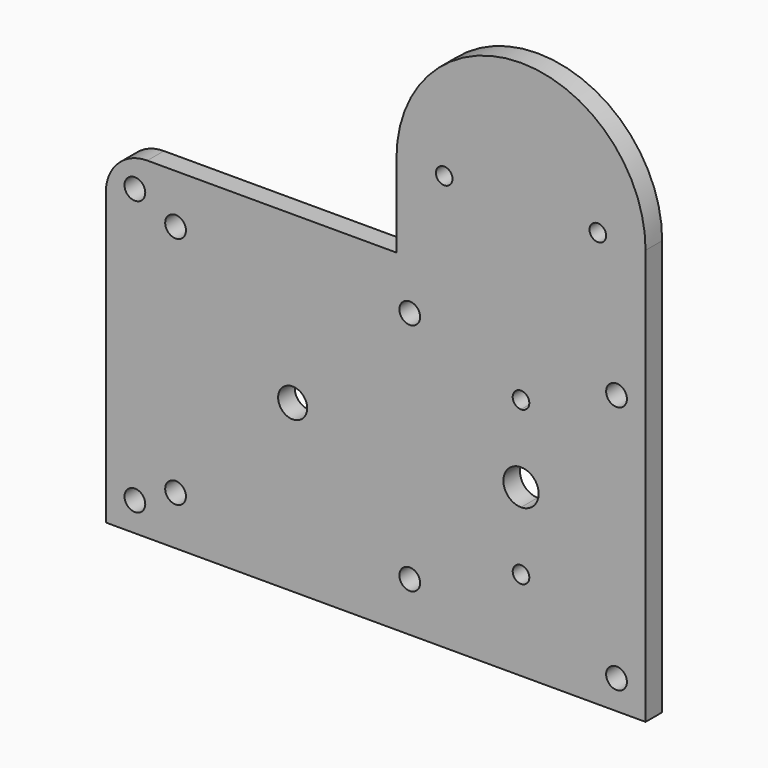
from build123d import *

# Parameters (mm, degrees)
F0_R     = 2.5
F0_R_2   = 3.5
F0_R_3   = 2
F1_DEPTH = 5


with BuildPart() as f1:
    # F0 (on Front) → F1 (new body)
    with BuildSketch(Plane.XZ):
        with BuildLine():
            Line((-100, -90), (30, -90))
            Line((30, -90), (30, 10))
            ThreePointArc((30, 10), (0, 40), (-30, 10))
            Line((-30, 10), (-30, -10))
            Line((-30, -10), (-90, -10))
            ThreePointArc((-90, -10), (-97.071068, -12.928932), (-100, -20))
            Line((-100, -20), (-100, -90))
        make_face()
        with Locations((-93, -83)):
            Circle(F0_R, mode=Mode.SUBTRACT)
        with Locations((-83.2, -78.2)):
            Circle(F0_R, mode=Mode.SUBTRACT)
        with Locations((-55, -50)):
            Circle(F0_R_2, mode=Mode.SUBTRACT)
        with Locations((-26.8, -78.2)):
            Circle(F0_R, mode=Mode.SUBTRACT)
        with Locations((23, -83)):
            Circle(F0_R, mode=Mode.SUBTRACT)
        with BuildLine():
            ThreePointArc((2, -68.5), (-1.414214, -69.914214), (0, -66.5))
            ThreePointArc((0, -66.5), (1.414214, -67.085786), (2, -68.5))
        make_face(mode=Mode.SUBTRACT)
        with BuildLine():
            ThreePointArc((0, -54.25), (-4.25, -50), (0, -45.75))
            ThreePointArc((0, -45.75), (3.005204, -46.994796), (4.25, -50))
            ThreePointArc((4.25, -50), (3.005204, -53.005204), (0, -54.25))
        make_face(mode=Mode.SUBTRACT)
        with BuildLine():
            ThreePointArc((0, -33.5), (-1.414214, -30.085786), (2, -31.5))
            ThreePointArc((2, -31.5), (1.414214, -32.914214), (0, -33.5))
        make_face(mode=Mode.SUBTRACT)
        with Locations((-93, -17)):
            Circle(F0_R, mode=Mode.SUBTRACT)
        with Locations((-83.2, -21.8)):
            Circle(F0_R, mode=Mode.SUBTRACT)
        with Locations((-26.8, -21.8)):
            Circle(F0_R, mode=Mode.SUBTRACT)
        with Locations((23, -23)):
            Circle(F0_R, mode=Mode.SUBTRACT)
        with Locations((-18.5, 10)):
            Circle(F0_R_3, mode=Mode.SUBTRACT)
        with Locations((18.5, 10)):
            Circle(F0_R_3, mode=Mode.SUBTRACT)
    extrude(amount=F1_DEPTH)


solid = f1.part
